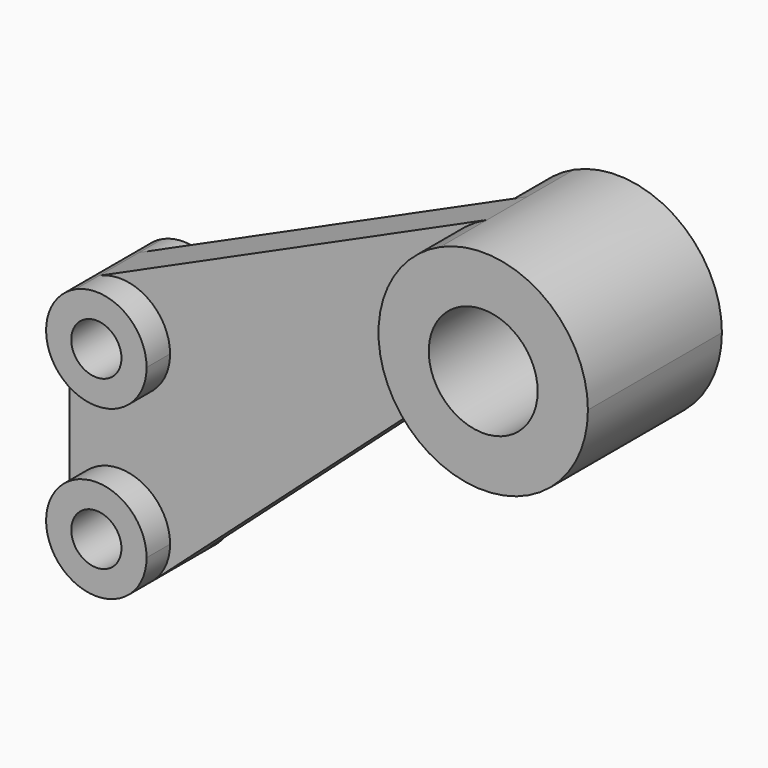
from build123d import *

# Parameters (mm, degrees)
F1_DEPTH = 5.9944
F0_R     = 5.9944
F2_DEPTH = 13.0048
F0_R_2   = 13.0048
F3_DEPTH = 20.0025


with BuildPart() as f1:
    # F0 (on Front) → F1 (new body, symmetric)
    with BuildSketch(Plane.XZ):
        with BuildLine():
            ThreePointArc((-12.0015, 0), (0, 12.0015), (12.0015, 0))
            ThreePointArc((12.0015, 0), (10.956421, -4.89825), (8.003192, -8.943429))
            Line((8.003192, -8.943429), (70.840811, 47.287965))
            ThreePointArc((70.840811, 47.287965), (77.724302, 50.291189), (85.043854, 48.610124))
            ThreePointArc((85.043854, 48.610124), (73.031918, 71.502214), (87.698507, 92.791308))
            Line((87.698507, 92.791308), (-4.940825, 50.942287))
            ThreePointArc((-4.940825, 50.942287), (6.509174, 50.087989), (12.0015, 40.005))
            ThreePointArc((12.0015, 40.005), (0, 28.0035), (-12.0015, 40.005))
            Line((-12.0015, 40.005), (-12.0015, 0))
        make_face()
    extrude(amount=F1_DEPTH, both=True)

    # F0 (on Front) → F2 (join, symmetric)
    with BuildSketch(Plane.XZ):
        with BuildLine():
            ThreePointArc((-4.940825, 50.942287), (-10.082989, 46.514174), (-12.0015, 40.005))
            ThreePointArc((-12.0015, 40.005), (0, 28.0035), (12.0015, 40.005))
            ThreePointArc((12.0015, 40.005), (6.509174, 50.087989), (-4.940825, 50.942287))
        make_face()
        with Locations((0, 40.005)):
            Circle(F0_R, mode=Mode.SUBTRACT)
        with BuildLine():
            ThreePointArc((8.003192, -8.943429), (10.956421, -4.89825), (12.0015, 0))
            ThreePointArc((12.0015, 0), (0, 12.0015), (-12.0015, 0))
            ThreePointArc((-12.0015, 0), (-4.89825, -10.956421), (8.003192, -8.943429))
        make_face()
        Circle(F0_R, mode=Mode.SUBTRACT)
    extrude(amount=F2_DEPTH, both=True)

    # F0 (on Front) → F3 (join, symmetric)
    with BuildSketch(Plane.XZ):
        with BuildLine():
            ThreePointArc((87.698507, 92.791308), (73.031918, 71.502214), (85.043854, 48.610124))
            ThreePointArc((85.043854, 48.610124), (110.271225, 48.217884), (122.9995, 70.0024))
            ThreePointArc((122.9995, 70.0024), (111.555701, 91.011294), (87.698507, 92.791308))
        make_face()
        with Locations((97.9932, 70.0024)):
            Circle(F0_R_2, mode=Mode.SUBTRACT)
    extrude(amount=F3_DEPTH, both=True)


solid = f1.part
